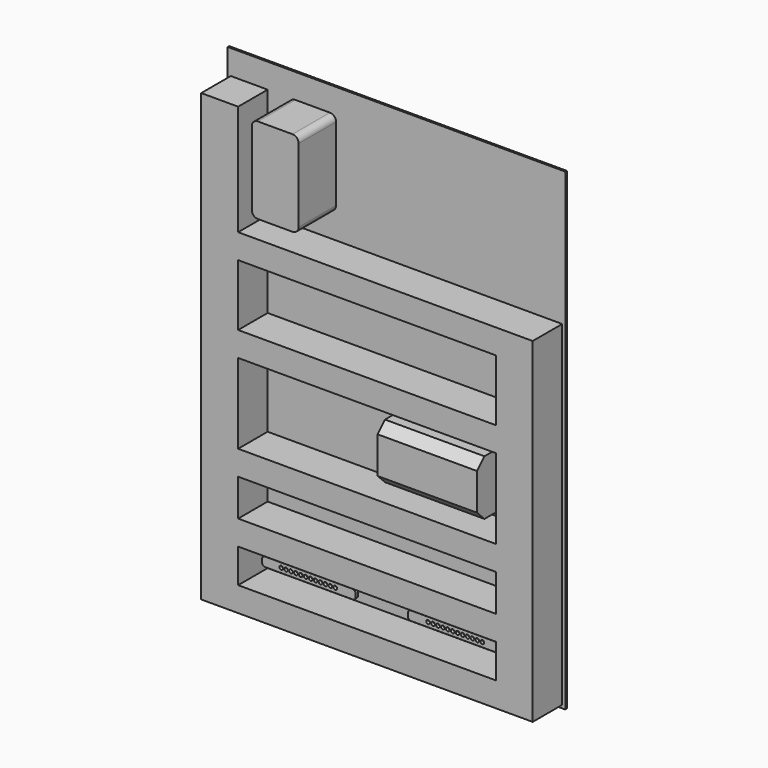
from build123d import *

# Parameters (mm, degrees)
F0_W      = 549
F0_H      = 770
F1_DEPTH  = 3
F3_DEPTH  = 76
F4_W      = 419
F4_H      = 60
F4_H_2    = 130
F4_H_3    = 40
F5_DEPTH  = 60
F6_W      = 161.7
F6_H      = 89.7
F7_DEPTH  = 60.6
F8_SIZE   = 15
F9_R      = 6
F10_DEPTH = 25
F11_R     = 3
F12_DEPTH = 5


with BuildPart() as f1:
    # F0 (on Front) → F1 (new body)
    with BuildSketch(Plane.XZ):
        Rectangle(F0_W, F0_H)
    extrude(amount=-F1_DEPTH)


with BuildPart() as f3:
    # F2 (on face) → F3 (new body)
    with BuildSketch(Plane.XZ):
        with BuildLine():
            Line((-108.3, 345), (-164.5, 345))
            ThreePointArc((-164.5, 345), (-171.571068, 342.071068), (-174.5, 335))
            Line((-174.5, 335), (-174.5, 215.3))
            ThreePointArc((-174.5, 215.3), (-171.571068, 208.228932), (-164.5, 205.3))
            Line((-164.5, 205.3), (-108.3, 205.3))
            ThreePointArc((-108.3, 205.3), (-101.228932, 208.228932), (-98.3, 215.3))
            Line((-98.3, 215.3), (-98.3, 335))
            ThreePointArc((-98.3, 335), (-101.228932, 342.071068), (-108.3, 345))
        make_face()
    extrude(amount=F3_DEPTH)


with BuildPart() as f5:
    # F4 (on face) → F5 (new body)
    with BuildSketch(Plane.XZ):
        Polygon((-209.5, 345), (-269.5, 345), (-269.5, -380), (-209.5, -380), (-209.5, -340), (-209.5, -284.7), (209.5, -284.7), (209.5, -340), (209.5, -380), (269.5, -380), (269.5, 165.3), (209.5, 165.3), (209.5, 125.3), (209.5, 25.3), (-209.5, 25.3), (-209.5, 125.3), (-209.5, 165.3), align=None)
        with Locations((0, -214.7)):
            Rectangle(F4_W, F4_H, mode=Mode.SUBTRACT)
        with Locations((0, -79.7)):
            Rectangle(F4_W, F4_H_2, mode=Mode.SUBTRACT)
        with Locations((0, 145.3)):
            Rectangle(F4_W, F4_H_3)
        with Locations((0, -360)):
            Rectangle(F4_W, F4_H_3)
    extrude(amount=F5_DEPTH)


with BuildPart() as f7:
    # F6 (on face) → F7 (new body)
    with BuildSketch(Plane.XZ):
        with Locations((98.65, -79.7)):
            Rectangle(F6_W, F6_H)
    extrude(amount=F7_DEPTH)

    # F8
    f8_edges = [f7.edges().sort_by_distance(p)[0] for p in [
        (98.65, -60.6, -124.55),
        (98.65, -60.6, -34.85),
    ]]
    chamfer(f8_edges, length=F8_SIZE)


with BuildPart() as f10:
    # F9 (on face) → F10 (new body)
    with BuildSketch(Plane.XZ):
        with Locations((-178.5, -312.35)):
            Circle(F9_R)
        with Locations((-58.5, -312.35)):
            Circle(F9_R)
        with Locations((58.5, -312.35)):
            Circle(F9_R)
        with Locations((178.5, -312.35)):
            Circle(F9_R)
    extrude(amount=F10_DEPTH)


with BuildPart() as f12:
    # F11 (on face) → F12 (new body)
    with BuildSketch(Plane.XZ.offset(25)):
        with BuildLine():
            Line((-47.5, -304.85), (-189.5, -304.85))
            ThreePointArc((-189.5, -304.85), (-193.035534, -306.314466), (-194.5, -309.85))
            Line((-194.5, -309.85), (-194.5, -314.85))
            ThreePointArc((-194.5, -314.85), (-193.035534, -318.385534), (-189.5, -319.85))
            Line((-189.5, -319.85), (-47.5, -319.85))
            ThreePointArc((-47.5, -319.85), (-43.964466, -318.385534), (-42.5, -314.85))
            Line((-42.5, -314.85), (-42.5, -309.85))
            ThreePointArc((-42.5, -309.85), (-43.964466, -306.314466), (-47.5, -304.85))
        make_face()
        with Locations((-163.5, -312.35)):
            Circle(F11_R, mode=Mode.SUBTRACT)
        with Locations((-155.5, -312.35)):
            Circle(F11_R, mode=Mode.SUBTRACT)
        with Locations((-147.5, -312.35)):
            Circle(F11_R, mode=Mode.SUBTRACT)
        with Locations((-139.5, -312.35)):
            Circle(F11_R, mode=Mode.SUBTRACT)
        with Locations((-131.5, -312.35)):
            Circle(F11_R, mode=Mode.SUBTRACT)
        with Locations((-123.5, -312.35)):
            Circle(F11_R, mode=Mode.SUBTRACT)
        with Locations((-115.5, -312.35)):
            Circle(F11_R, mode=Mode.SUBTRACT)
        with Locations((-107.5, -312.35)):
            Circle(F11_R, mode=Mode.SUBTRACT)
        with Locations((-99.5, -312.35)):
            Circle(F11_R, mode=Mode.SUBTRACT)
        with Locations((-91.5, -312.35)):
            Circle(F11_R, mode=Mode.SUBTRACT)
        with Locations((-83.5, -312.35)):
            Circle(F11_R, mode=Mode.SUBTRACT)
        with Locations((-75.5, -312.35)):
            Circle(F11_R, mode=Mode.SUBTRACT)
        with BuildLine():
            Line((47.5, -319.85), (189.5, -319.85))
            ThreePointArc((189.5, -319.85), (193.035534, -318.385534), (194.5, -314.85))
            Line((194.5, -314.85), (194.5, -309.85))
            ThreePointArc((194.5, -309.85), (193.035534, -306.314466), (189.5, -304.85))
            Line((189.5, -304.85), (47.5, -304.85))
            ThreePointArc((47.5, -304.85), (43.964466, -306.314466), (42.5, -309.85))
            Line((42.5, -309.85), (42.5, -314.85))
            ThreePointArc((42.5, -314.85), (43.964466, -318.385534), (47.5, -319.85))
        make_face()
        with Locations((75.5, -312.35)):
            Circle(F11_R, mode=Mode.SUBTRACT)
        with Locations((83.5, -312.35)):
            Circle(F11_R, mode=Mode.SUBTRACT)
        with Locations((91.5, -312.35)):
            Circle(F11_R, mode=Mode.SUBTRACT)
        with Locations((99.5, -312.35)):
            Circle(F11_R, mode=Mode.SUBTRACT)
        with Locations((107.5, -312.35)):
            Circle(F11_R, mode=Mode.SUBTRACT)
        with Locations((115.5, -312.35)):
            Circle(F11_R, mode=Mode.SUBTRACT)
        with Locations((123.5, -312.35)):
            Circle(F11_R, mode=Mode.SUBTRACT)
        with Locations((131.5, -312.35)):
            Circle(F11_R, mode=Mode.SUBTRACT)
        with Locations((139.5, -312.35)):
            Circle(F11_R, mode=Mode.SUBTRACT)
        with Locations((147.5, -312.35)):
            Circle(F11_R, mode=Mode.SUBTRACT)
        with Locations((155.5, -312.35)):
            Circle(F11_R, mode=Mode.SUBTRACT)
        with Locations((163.5, -312.35)):
            Circle(F11_R, mode=Mode.SUBTRACT)
    extrude(amount=F12_DEPTH)


solid = Compound([f1.part, f3.part, f5.part, f7.part, f10.part, f12.part])
